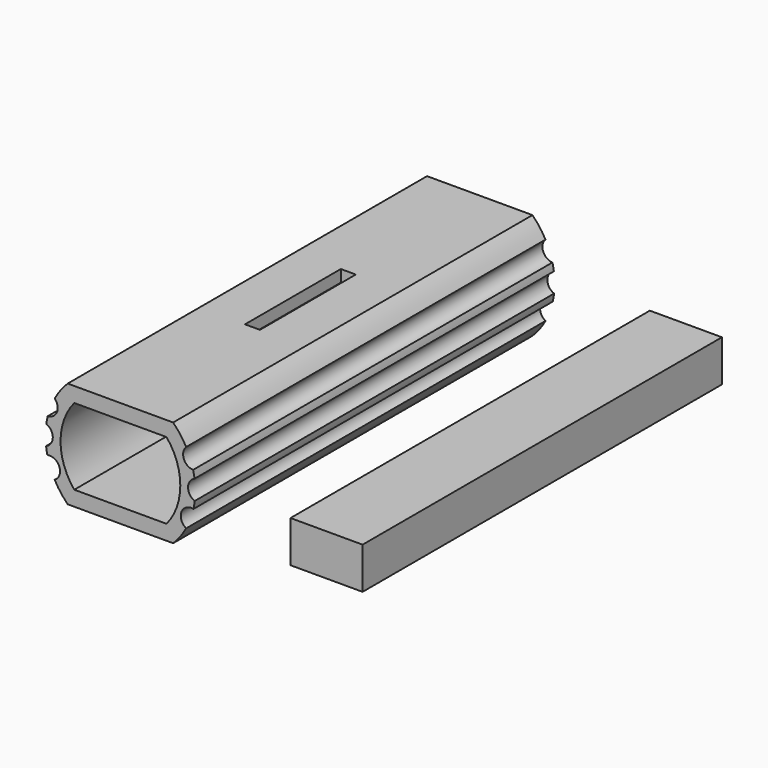
from build123d import *

# Parameters (mm, degrees)
F0_W     = 48.156478
F0_H     = 27.760793
F1_DEPTH = 300
F3_DEPTH = 300
F4_W     = 10
F4_H     = 80
F5_DEPTH = 8
F6_W     = 5
F6_H     = 15
F7_DEPTH = 5
F9_DEPTH = 300


with BuildPart() as f1:
    # F0 (on Front) → F1 (new body)
    with BuildSketch(Plane.XZ):
        with BuildLine():
            Line((35.210084, 35.5), (-35.210084, 35.5))
            ThreePointArc((-35.210084, 35.5), (-50, 0), (-35.210084, -35.5))
            Line((-35.210084, -35.5), (35.210084, -35.5))
            ThreePointArc((35.210084, -35.5), (50, 0), (35.210084, 35.5))
        make_face()
        with Locations((137.670871, -9.064749)):
            Rectangle(F0_W, F0_H)
    extrude(amount=F1_DEPTH)

    # F2 (on face) → F3 (cut)
    with BuildSketch(Plane.XZ.offset(300)):
        with BuildLine():
            Line((30.818014, 25.5), (-30.818014, 25.5))
            ThreePointArc((-30.818014, 25.5), (-40, 0), (-30.818014, -25.5))
            Line((-30.818014, -25.5), (30.818014, -25.5))
            ThreePointArc((30.818014, -25.5), (40, 0), (30.818014, 25.5))
        make_face()
    extrude(amount=-F3_DEPTH, mode=Mode.SUBTRACT)

    # F4 (on face) → F5 (cut)
    with BuildSketch(Plane.XY.offset(35.5)):
        with Locations((0.210084, -150)):
            Rectangle(F4_W, F4_H)
    extrude(amount=-F5_DEPTH, mode=Mode.SUBTRACT)

    # F6 (on face) → F7 (cut)
    with BuildSketch(Plane.XY.offset(27.5)):
        with Locations((0.210084, -127.5)):
            Rectangle(F6_W, F6_H)
        with Locations((0.210084, -172.5)):
            Rectangle(F6_W, F6_H)
    extrude(amount=-F7_DEPTH, mode=Mode.SUBTRACT)

    # F8 (on face) → F9 (cut)
    with BuildSketch(Plane.XZ.offset(300)):
        with BuildLine():
            ThreePointArc((48.544861, 11.974828), (47.232473, 18.328418), (43.915699, 23.904213))
            ThreePointArc((43.915699, 23.904213), (42.351965, 16.434552), (48.544861, 11.974828))
        make_face()
        with BuildLine():
            ThreePointArc((49.646362, -5.936223), (52.468789, 0.598181), (49.498121, 7.06654))
            ThreePointArc((49.498121, 7.06654), (45.166086, 0.514925), (49.646362, -5.936223))
        make_face()
        with BuildLine():
            ThreePointArc((43.915699, -23.904213), (49.497466, -18.602155), (48.789333, -10.936223))
            ThreePointArc((48.789333, -10.936223), (40.745247, -15.312893), (43.915699, -23.904213))
        make_face()
        with BuildLine():
            ThreePointArc((-48.544861, 11.974828), (-42.351965, 16.434552), (-43.915699, 23.904213))
            ThreePointArc((-43.915699, 23.904213), (-47.232473, 18.328418), (-48.544861, 11.974828))
        make_face()
        with BuildLine():
            ThreePointArc((-49.646362, -5.936223), (-45.166086, 0.514925), (-49.498121, 7.06654))
            ThreePointArc((-49.498121, 7.06654), (-52.468789, 0.598181), (-49.646362, -5.936223))
        make_face()
        with BuildLine():
            ThreePointArc((-43.915699, -23.904213), (-40.745247, -15.312893), (-48.789333, -10.936223))
            ThreePointArc((-48.789333, -10.936223), (-49.497466, -18.602155), (-43.915699, -23.904213))
        make_face()
    extrude(amount=-F9_DEPTH, mode=Mode.SUBTRACT)


solid = f1.part
